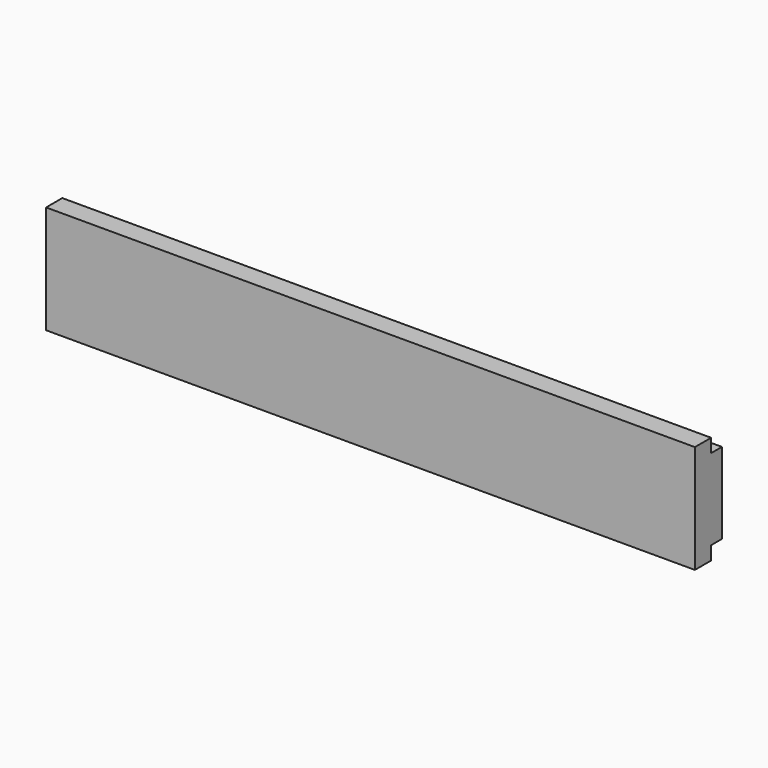
from build123d import *

# Parameters (mm, degrees)
F0_W     = 6.35
F0_H     = 38.1
F1_DEPTH = 152.4


with BuildPart() as f1:
    # F0 (on Right) → F1 (new body, symmetric)
    with BuildSketch(Plane.YZ):
        Polygon((-11.1125, 25.4), (-20.6375, 25.4), (-20.6375, -25.4), (-11.1125, -25.4), (-11.1125, -19.05), (-11.1125, 19.05), align=None)
        with Locations((-7.9375, 0)):
            Rectangle(F0_W, F0_H)
    extrude(amount=F1_DEPTH, both=True)


solid = f1.part
